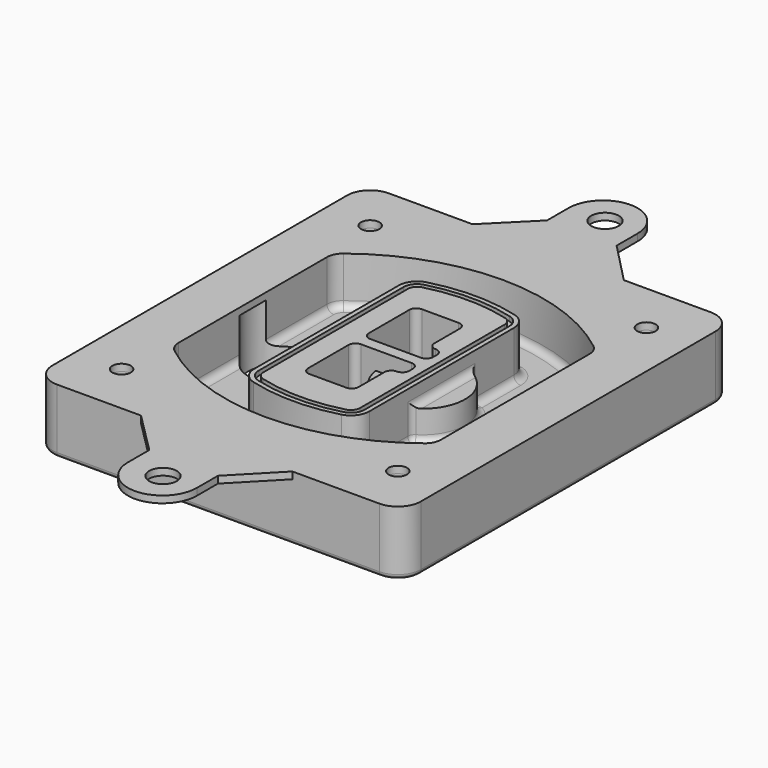
from build123d import *

# Parameters (mm, degrees)
F0_R      = 4
F1_DEPTH  = 25
F2_DEPTH  = 3
F3_DEPTH  = 18
F5_DEPTH  = 21
F6_DEPTH  = 2
F8_DEPTH  = 20
F9_DEPTH  = 16
F10_DEPTH = 25
F7_R      = 6
F7_R_2    = 4
F11_DEPTH = 6
F13_DEPTH = 9
F14_R     = 3
F15_R     = 2
F16_R     = 6
F16_R_2   = 4
F17_DEPTH = 3


with BuildPart() as f1:
    # F0 (on Top) → F1 (new body)
    with BuildSketch(Plane.XY):
        with BuildLine():
            ThreePointArc((-80, -80), (-77.0710678119, -87.0710678119), (-70, -90))
            Line((-70, -90), (70, -90))
            ThreePointArc((70, -90), (77.0710678119, -87.0710678119), (80, -80))
            Line((80, -80), (80, 80))
            ThreePointArc((80, 80), (77.0710678119, 87.0710678119), (70, 90))
            Line((70, 90), (-70, 90))
            ThreePointArc((-70, 90), (-77.0710678119, 87.0710678119), (-80, 80))
            Line((-80, 80), (-80, -80))
        make_face()
        with Locations((-60, -67.5)):
            Circle(F0_R, mode=Mode.SUBTRACT)
        with Locations((60, -67.5)):
            Circle(F0_R, mode=Mode.SUBTRACT)
        with Locations((-60, 67.5)):
            Circle(F0_R, mode=Mode.SUBTRACT)
        with BuildLine():
            ThreePointArc((-64, 40.2934422872), (-62.5820384798, 46.4328484224), (-58.6153846154, 51.3286200352))
            ThreePointArc((-58.6153846154, 51.3286200352), (0, 71.5), (58.6153846154, 51.3286200352))
            ThreePointArc((58.6153846154, 51.3286200352), (62.5820384798, 46.4328484224), (64, 40.2934422872))
            Line((64, 40.2934422872), (64, -40.2934422872))
            ThreePointArc((64, -40.2934422872), (62.5820384798, -46.4328484224), (58.6153846154, -51.3286200352))
            ThreePointArc((58.6153846154, -51.3286200352), (0, -71.5), (-58.6153846154, -51.3286200352))
            ThreePointArc((-58.6153846154, -51.3286200352), (-62.5820384798, -46.4328484224), (-64, -40.2934422872))
            Line((-64, -40.2934422872), (-64, 40.2934422872))
        make_face(mode=Mode.SUBTRACT)
        with Locations((60, 67.5)):
            Circle(F0_R, mode=Mode.SUBTRACT)
        with BuildLine():
            ThreePointArc((58.6153846154, 51.3286200352), (0, 71.5), (-58.6153846154, 51.3286200352))
            ThreePointArc((-58.6153846154, 51.3286200352), (-62.5820384798, 46.4328484224), (-64, 40.2934422872))
            Line((-64, 40.2934422872), (-64, -40.2934422872))
            ThreePointArc((-64, -40.2934422872), (-62.5820384798, -46.4328484224), (-58.6153846154, -51.3286200352))
            ThreePointArc((-58.6153846154, -51.3286200352), (0, -71.5), (58.6153846154, -51.3286200352))
            ThreePointArc((58.6153846154, -51.3286200352), (62.5820384798, -46.4328484224), (64, -40.2934422872))
            Line((64, -40.2934422872), (64, 40.2934422872))
            ThreePointArc((64, 40.2934422872), (62.5820384798, 46.4328484224), (58.6153846154, 51.3286200352))
        make_face()
        with BuildLine():
            Line((-60, -40.2934422872), (-60, 40.2934422872))
            ThreePointArc((-60, 40.2934422872), (-58.9871703427, 44.6787323838), (-56.1538461538, 48.1757121072))
            ThreePointArc((-56.1538461538, 48.1757121072), (0, 67.5), (56.1538461538, 48.1757121072))
            ThreePointArc((56.1538461538, 48.1757121072), (58.9871703427, 44.6787323838), (60, 40.2934422872))
            Line((60, 40.2934422872), (60, -40.2934422872))
            ThreePointArc((60, -40.2934422872), (58.9871703427, -44.6787323838), (56.1538461538, -48.1757121072))
            ThreePointArc((56.1538461538, -48.1757121072), (0, -67.5), (-56.1538461538, -48.1757121072))
            ThreePointArc((-56.1538461538, -48.1757121072), (-58.9871703427, -44.6787323838), (-60, -40.2934422872))
        make_face(mode=Mode.SUBTRACT)
        with BuildLine():
            ThreePointArc((-56.1538461538, 48.1757121072), (-58.9871703427, 44.6787323838), (-60, 40.2934422872))
            Line((-60, 40.2934422872), (-60, -40.2934422872))
            ThreePointArc((-60, -40.2934422872), (-58.9871703427, -44.6787323838), (-56.1538461538, -48.1757121072))
            ThreePointArc((-56.1538461538, -48.1757121072), (0, -67.5), (56.1538461538, -48.1757121072))
            ThreePointArc((56.1538461538, -48.1757121072), (58.9871703427, -44.6787323838), (60, -40.2934422872))
            Line((60, -40.2934422872), (60, 40.2934422872))
            ThreePointArc((60, 40.2934422872), (58.9871703427, 44.6787323838), (56.1538461538, 48.1757121072))
            ThreePointArc((56.1538461538, 48.1757121072), (0, 67.5), (-56.1538461538, 48.1757121072))
        make_face()
        with BuildLine():
            ThreePointArc((54.3076923077, 45.8110311612), (56.2910192399, 43.3631453548), (57, 40.2934422872))
            Line((57, 40.2934422872), (57, -40.2934422872))
            ThreePointArc((57, -40.2934422872), (56.2910192399, -43.3631453548), (54.3076923077, -45.8110311612))
            ThreePointArc((54.3076923077, -45.8110311612), (0, -64.5), (-54.3076923077, -45.8110311612))
            ThreePointArc((-54.3076923077, -45.8110311612), (-56.2910192399, -43.3631453548), (-57, -40.2934422872))
            Line((-57, -40.2934422872), (-57, 40.2934422872))
            ThreePointArc((-57, 40.2934422872), (-56.2910192399, 43.3631453548), (-54.3076923077, 45.8110311612))
            ThreePointArc((-54.3076923077, 45.8110311612), (0, 64.5), (54.3076923077, 45.8110311612))
        make_face(mode=Mode.SUBTRACT)
        with BuildLine():
            Line((57, -40.2934422872), (57, 40.2934422872))
            ThreePointArc((57, 40.2934422872), (56.2910192399, 43.3631453548), (54.3076923077, 45.8110311612))
            ThreePointArc((54.3076923077, 45.8110311612), (0, 64.5), (-54.3076923077, 45.8110311612))
            ThreePointArc((-54.3076923077, 45.8110311612), (-56.2910192399, 43.3631453548), (-57, 40.2934422872))
            Line((-57, 40.2934422872), (-57, -40.2934422872))
            ThreePointArc((-57, -40.2934422872), (-56.2910192399, -43.3631453548), (-54.3076923077, -45.8110311612))
            ThreePointArc((-54.3076923077, -45.8110311612), (0, -64.5), (54.3076923077, -45.8110311612))
            ThreePointArc((54.3076923077, -45.8110311612), (56.2910192399, -43.3631453548), (57, -40.2934422872))
        make_face()
    extrude(amount=-F1_DEPTH)

    # F0 (on Top) → F2 (join)
    with BuildSketch(Plane.XY):
        with BuildLine():
            ThreePointArc((-56.1538461538, 48.1757121072), (-58.9871703427, 44.6787323838), (-60, 40.2934422872))
            Line((-60, 40.2934422872), (-60, -40.2934422872))
            ThreePointArc((-60, -40.2934422872), (-58.9871703427, -44.6787323838), (-56.1538461538, -48.1757121072))
            ThreePointArc((-56.1538461538, -48.1757121072), (0, -67.5), (56.1538461538, -48.1757121072))
            ThreePointArc((56.1538461538, -48.1757121072), (58.9871703427, -44.6787323838), (60, -40.2934422872))
            Line((60, -40.2934422872), (60, 40.2934422872))
            ThreePointArc((60, 40.2934422872), (58.9871703427, 44.6787323838), (56.1538461538, 48.1757121072))
            ThreePointArc((56.1538461538, 48.1757121072), (0, 67.5), (-56.1538461538, 48.1757121072))
        make_face()
        with BuildLine():
            ThreePointArc((54.3076923077, 45.8110311612), (56.2910192399, 43.3631453548), (57, 40.2934422872))
            Line((57, 40.2934422872), (57, -40.2934422872))
            ThreePointArc((57, -40.2934422872), (56.2910192399, -43.3631453548), (54.3076923077, -45.8110311612))
            ThreePointArc((54.3076923077, -45.8110311612), (0, -64.5), (-54.3076923077, -45.8110311612))
            ThreePointArc((-54.3076923077, -45.8110311612), (-56.2910192399, -43.3631453548), (-57, -40.2934422872))
            Line((-57, -40.2934422872), (-57, 40.2934422872))
            ThreePointArc((-57, 40.2934422872), (-56.2910192399, 43.3631453548), (-54.3076923077, 45.8110311612))
            ThreePointArc((-54.3076923077, 45.8110311612), (0, 64.5), (54.3076923077, 45.8110311612))
        make_face(mode=Mode.SUBTRACT)
    extrude(amount=F2_DEPTH)

    # F0 (on Top) → F3 (cut)
    with BuildSketch(Plane.XY):
        with BuildLine():
            Line((57, -40.2934422872), (57, 40.2934422872))
            ThreePointArc((57, 40.2934422872), (56.2910192399, 43.3631453548), (54.3076923077, 45.8110311612))
            ThreePointArc((54.3076923077, 45.8110311612), (0, 64.5), (-54.3076923077, 45.8110311612))
            ThreePointArc((-54.3076923077, 45.8110311612), (-56.2910192399, 43.3631453548), (-57, 40.2934422872))
            Line((-57, 40.2934422872), (-57, -40.2934422872))
            ThreePointArc((-57, -40.2934422872), (-56.2910192399, -43.3631453548), (-54.3076923077, -45.8110311612))
            ThreePointArc((-54.3076923077, -45.8110311612), (0, -64.5), (54.3076923077, -45.8110311612))
            ThreePointArc((54.3076923077, -45.8110311612), (56.2910192399, -43.3631453548), (57, -40.2934422872))
        make_face()
    extrude(amount=-F3_DEPTH, mode=Mode.SUBTRACT)

    # F4 (on face) → F5 (join, through all)
    with BuildSketch(Plane.XY.offset(3)):
        with BuildLine():
            ThreePointArc((-25, -39.2465276821), (-23.3511545998, -44.1109737193), (-19.0842911877, -46.9702398883))
            ThreePointArc((-19.0842911877, -46.9702398883), (0, -49.5), (19.0842911877, -46.9702398883))
            ThreePointArc((19.0842911877, -46.9702398883), (23.3511545998, -44.1109737193), (25, -39.2465276821))
            Line((25, -39.2465276821), (25, 39.2465276821))
            ThreePointArc((25, 39.2465276821), (23.3511545998, 44.1109737193), (19.0842911877, 46.9702398883))
            ThreePointArc((19.0842911877, 46.9702398883), (0, 49.5), (-19.0842911877, 46.9702398883))
            ThreePointArc((-19.0842911877, 46.9702398883), (-23.3511545998, 44.1109737193), (-25, 39.2465276821))
            Line((-25, 39.2465276821), (-25, -39.2465276821))
        make_face()
        with BuildLine():
            ThreePointArc((18.5632183908, 45.0393118368), (21.7633659499, 42.89486221), (23, 39.2465276821))
            Line((23, 39.2465276821), (23, -39.2465276821))
            ThreePointArc((23, -39.2465276821), (21.7633659499, -42.89486221), (18.5632183908, -45.0393118368))
            ThreePointArc((18.5632183908, -45.0393118368), (0, -47.5), (-18.5632183908, -45.0393118368))
            ThreePointArc((-18.5632183908, -45.0393118368), (-21.7633659499, -42.89486221), (-23, -39.2465276821))
            Line((-23, -39.2465276821), (-23, 39.2465276821))
            ThreePointArc((-23, 39.2465276821), (-21.7633659499, 42.89486221), (-18.5632183908, 45.0393118368))
            ThreePointArc((-18.5632183908, 45.0393118368), (0, 47.5), (18.5632183908, 45.0393118368))
        make_face(mode=Mode.SUBTRACT)
        with BuildLine():
            Line((23, -39.2465276821), (23, 39.2465276821))
            ThreePointArc((23, 39.2465276821), (21.7633659499, 42.89486221), (18.5632183908, 45.0393118368))
            ThreePointArc((18.5632183908, 45.0393118368), (0, 47.5), (-18.5632183908, 45.0393118368))
            ThreePointArc((-18.5632183908, 45.0393118368), (-21.7633659499, 42.89486221), (-23, 39.2465276821))
            Line((-23, 39.2465276821), (-23, -39.2465276821))
            ThreePointArc((-23, -39.2465276821), (-21.7633659499, -42.89486221), (-18.5632183908, -45.0393118368))
            ThreePointArc((-18.5632183908, -45.0393118368), (0, -47.5), (18.5632183908, -45.0393118368))
            ThreePointArc((18.5632183908, -45.0393118368), (21.7633659499, -42.89486221), (23, -39.2465276821))
        make_face()
        with BuildLine():
            ThreePointArc((18.0421455939, 43.1083837852), (20.1755772999, 41.6787507007), (21, 39.2465276821))
            Line((21, 39.2465276821), (21, -39.2465276821))
            ThreePointArc((21, -39.2465276821), (20.1755772999, -41.6787507007), (18.0421455939, -43.1083837852))
            ThreePointArc((18.0421455939, -43.1083837852), (0, -45.5), (-18.0421455939, -43.1083837852))
            ThreePointArc((-18.0421455939, -43.1083837852), (-20.1755772999, -41.6787507007), (-21, -39.2465276821))
            Line((-21, -39.2465276821), (-21, 39.2465276821))
            ThreePointArc((-21, 39.2465276821), (-20.1755772999, 41.6787507007), (-18.0421455939, 43.1083837852))
            ThreePointArc((-18.0421455939, 43.1083837852), (0, 45.5), (18.0421455939, 43.1083837852))
        make_face(mode=Mode.SUBTRACT)
        with BuildLine():
            Line((21, -39.2465276821), (21, 39.2465276821))
            ThreePointArc((21, 39.2465276821), (20.1755772999, 41.6787507007), (18.0421455939, 43.1083837852))
            ThreePointArc((18.0421455939, 43.1083837852), (0, 45.5), (-18.0421455939, 43.1083837852))
            ThreePointArc((-18.0421455939, 43.1083837852), (-20.1755772999, 41.6787507007), (-21, 39.2465276821))
            Line((-21, 39.2465276821), (-21, -39.2465276821))
            ThreePointArc((-21, -39.2465276821), (-20.1755772999, -41.6787507007), (-18.0421455939, -43.1083837852))
            ThreePointArc((-18.0421455939, -43.1083837852), (0, -45.5), (18.0421455939, -43.1083837852))
            ThreePointArc((18.0421455939, -43.1083837852), (20.1755772999, -41.6787507007), (21, -39.2465276821))
        make_face()
        with BuildLine():
            Line((-8, -2.5), (14, -2.5))
            ThreePointArc((14, -2.5), (16.1213203436, -3.3786796564), (17, -5.5))
            Line((17, -5.5), (17, -7.5))
            ThreePointArc((17, -7.5), (16.1213203436, -9.6213203436), (14, -10.5))
            ThreePointArc((14, -10.5), (11.8786796564, -11.3786796564), (11, -13.5))
            Line((11, -13.5), (11, -27.5))
            ThreePointArc((11, -27.5), (10.1213203436, -29.6213203436), (8, -30.5))
            Line((8, -30.5), (-8, -30.5))
            ThreePointArc((-8, -30.5), (-10.1213203436, -29.6213203436), (-11, -27.5))
            Line((-11, -27.5), (-11, -5.5))
            ThreePointArc((-11, -5.5), (-10.1213203436, -3.3786796564), (-8, -2.5))
        make_face(mode=Mode.SUBTRACT)
        with BuildLine():
            ThreePointArc((-8, 2.5), (-10.1213203436, 3.3786796564), (-11, 5.5))
            Line((-11, 5.5), (-11, 27.5))
            ThreePointArc((-11, 27.5), (-10.1213203436, 29.6213203436), (-8, 30.5))
            Line((-8, 30.5), (8, 30.5))
            ThreePointArc((8, 30.5), (10.1213203436, 29.6213203436), (11, 27.5))
            Line((11, 27.5), (11, 13.5))
            ThreePointArc((11, 13.5), (11.8786796564, 11.3786796564), (14, 10.5))
            ThreePointArc((14, 10.5), (16.1213203436, 9.6213203436), (17, 7.5))
            Line((17, 7.5), (17, 5.5))
            ThreePointArc((17, 5.5), (16.1213203436, 3.3786796564), (14, 2.5))
            Line((14, 2.5), (-8, 2.5))
        make_face(mode=Mode.SUBTRACT)
    extrude(amount=-F5_DEPTH)

    # F4 (on face) → F6 (cut)
    with BuildSketch(Plane.XY.offset(3)):
        with BuildLine():
            Line((23, -39.2465276821), (23, 39.2465276821))
            ThreePointArc((23, 39.2465276821), (21.7633659499, 42.89486221), (18.5632183908, 45.0393118368))
            ThreePointArc((18.5632183908, 45.0393118368), (0, 47.5), (-18.5632183908, 45.0393118368))
            ThreePointArc((-18.5632183908, 45.0393118368), (-21.7633659499, 42.89486221), (-23, 39.2465276821))
            Line((-23, 39.2465276821), (-23, -39.2465276821))
            ThreePointArc((-23, -39.2465276821), (-21.7633659499, -42.89486221), (-18.5632183908, -45.0393118368))
            ThreePointArc((-18.5632183908, -45.0393118368), (0, -47.5), (18.5632183908, -45.0393118368))
            ThreePointArc((18.5632183908, -45.0393118368), (21.7633659499, -42.89486221), (23, -39.2465276821))
        make_face()
        with BuildLine():
            ThreePointArc((18.0421455939, 43.1083837852), (20.1755772999, 41.6787507007), (21, 39.2465276821))
            Line((21, 39.2465276821), (21, -39.2465276821))
            ThreePointArc((21, -39.2465276821), (20.1755772999, -41.6787507007), (18.0421455939, -43.1083837852))
            ThreePointArc((18.0421455939, -43.1083837852), (0, -45.5), (-18.0421455939, -43.1083837852))
            ThreePointArc((-18.0421455939, -43.1083837852), (-20.1755772999, -41.6787507007), (-21, -39.2465276821))
            Line((-21, -39.2465276821), (-21, 39.2465276821))
            ThreePointArc((-21, 39.2465276821), (-20.1755772999, 41.6787507007), (-18.0421455939, 43.1083837852))
            ThreePointArc((-18.0421455939, 43.1083837852), (0, 45.5), (18.0421455939, 43.1083837852))
        make_face(mode=Mode.SUBTRACT)
    extrude(amount=-F6_DEPTH, mode=Mode.SUBTRACT)

    # F7 (on face) → F8 (join)
    with BuildSketch(Plane(origin=(0, 0, -25), x_dir=(1, 0, 0), z_dir=(0, 0, -1))):
        with BuildLine():
            ThreePointArc((3.28842436, 0), (16.7567035675, 13.4682792075), (30.224982775, 0))
            Line((30.224982775, 0), (35.224982775, 0))
            ThreePointArc((35.224982775, 0), (16.7567035675, 18.4682792075), (-1.71157564, 0))
            Line((-1.71157564, 0), (3.28842436, 0))
        make_face()
        with BuildLine():
            Line((3.28842436, 0), (30.224982775, 0))
            ThreePointArc((30.224982775, 0), (16.7567035675, 13.4682792075), (3.28842436, 0))
        make_face()
        with BuildLine():
            ThreePointArc((3.28842436, 0), (16.7567035675, -13.4682792075), (30.224982775, 0))
            Line((30.224982775, 0), (3.28842436, 0))
        make_face()
        with BuildLine():
            Line((35.224982775, 0), (30.224982775, 0))
            ThreePointArc((30.224982775, 0), (16.7567035675, -13.4682792075), (3.28842436, 0))
            Line((3.28842436, 0), (-1.71157564, 0))
            ThreePointArc((-1.71157564, 0), (16.7567035675, -18.4682792075), (35.224982775, 0))
        make_face()
    extrude(amount=-F8_DEPTH)

    # F7 (on face) → F9 (cut)
    with BuildSketch(Plane(origin=(0, 0, -25), x_dir=(1, 0, 0), z_dir=(0, 0, -1))):
        with BuildLine():
            Line((3.28842436, 0), (30.224982775, 0))
            ThreePointArc((30.224982775, 0), (16.7567035675, 13.4682792075), (3.28842436, 0))
        make_face()
        with BuildLine():
            ThreePointArc((3.28842436, 0), (16.7567035675, -13.4682792075), (30.224982775, 0))
            Line((30.224982775, 0), (3.28842436, 0))
        make_face()
    extrude(amount=-F9_DEPTH, mode=Mode.SUBTRACT)

    # F7 (on face) → F10 (cut)
    with BuildSketch(Plane(origin=(0, 0, -25), x_dir=(1, 0, 0), z_dir=(0, 0, -1))):
        with BuildLine():
            Line((-59.0318229325, 0), (-32.0952645175, 0))
            ThreePointArc((-32.0952645175, 0), (-45.563543725, 13.4682792075), (-59.0318229325, 0))
        make_face()
        with BuildLine():
            ThreePointArc((-59.0318229325, 0), (-45.563543725, -13.4682792075), (-32.0952645175, 0))
            Line((-32.0952645175, 0), (-59.0318229325, 0))
        make_face()
    extrude(amount=-F10_DEPTH, mode=Mode.SUBTRACT)

    # F7 (on face) → F11 (cut)
    with BuildSketch(Plane(origin=(0, 0, -25), x_dir=(1, 0, 0), z_dir=(0, 0, -1))):
        with Locations((60, -67.5)):
            Circle(F7_R)
        with Locations((60, -67.5)):
            Circle(F7_R_2, mode=Mode.SUBTRACT)
        with Locations((60, -67.5)):
            Circle(F7_R)
        with Locations((60, -67.5)):
            Circle(F7_R_2, mode=Mode.SUBTRACT)
        with Locations((-60, -67.5)):
            Circle(F7_R)
        with Locations((-60, -67.5)):
            Circle(F7_R_2, mode=Mode.SUBTRACT)
        with Locations((-60, -67.5)):
            Circle(F7_R)
        with Locations((-60, -67.5)):
            Circle(F7_R_2, mode=Mode.SUBTRACT)
        with Locations((-60, 67.5)):
            Circle(F7_R)
        with Locations((-60, 67.5)):
            Circle(F7_R_2, mode=Mode.SUBTRACT)
        with Locations((-60, 67.5)):
            Circle(F7_R)
        with Locations((-60, 67.5)):
            Circle(F7_R_2, mode=Mode.SUBTRACT)
        with Locations((60, 67.5)):
            Circle(F7_R)
        with Locations((60, 67.5)):
            Circle(F7_R_2, mode=Mode.SUBTRACT)
        with Locations((60, 67.5)):
            Circle(F7_R)
        with Locations((60, 67.5)):
            Circle(F7_R_2, mode=Mode.SUBTRACT)
    extrude(amount=-F11_DEPTH, mode=Mode.SUBTRACT)

    # F12 (on face) → F13 (cut, through all)
    with BuildSketch(Plane(origin=(0, 0, -9), x_dir=(1, 0, 0), z_dir=(0, 0, -1))):
        with BuildLine():
            Line((11, 13.5), (11, 17.5481537753))
            ThreePointArc((11, 17.5481537753), (2.5696536419, 11.8239143813), (-1.5415842455, 2.5))
            Line((-1.5415842455, 2.5), (3.5224848595, 2.5))
            ThreePointArc((3.5224848595, 2.5), (6.1857188154, 8.3455872281), (11.2536447004, 12.2927168648))
            ThreePointArc((11.2536447004, 12.2927168648), (11.0640958889, 12.8831798879), (11, 13.5))
        make_face()
        with BuildLine():
            ThreePointArc((11.2536447004, -12.2927168648), (6.1857188154, -8.3455872281), (3.5224848595, -2.5))
            Line((3.5224848595, -2.5), (-1.5415842455, -2.5))
            ThreePointArc((-1.5415842455, -2.5), (2.5696536419, -11.8239143813), (11, -17.5481537753))
            Line((11, -17.5481537753), (11, -13.5))
            ThreePointArc((11, -13.5), (11.0640958889, -12.8831798879), (11.2536447004, -12.2927168648))
        make_face()
        with BuildLine():
            ThreePointArc((11.2536447004, 12.2927168648), (6.1857188154, 8.3455872281), (3.5224848595, 2.5))
            Line((3.5224848595, 2.5), (14, 2.5))
            ThreePointArc((14, 2.5), (16.1213203436, 3.3786796564), (17, 5.5))
            Line((17, 5.5), (17, 7.5))
            ThreePointArc((17, 7.5), (16.1213203436, 9.6213203436), (14, 10.5))
            ThreePointArc((14, 10.5), (12.3601599782, 10.9878446101), (11.2536447004, 12.2927168648))
        make_face()
        with BuildLine():
            Line((14, -2.5), (3.5224848595, -2.5))
            ThreePointArc((3.5224848595, -2.5), (6.1857188154, -8.3455872281), (11.2536447004, -12.2927168648))
            ThreePointArc((11.2536447004, -12.2927168648), (12.3601599782, -10.9878446101), (14, -10.5))
            ThreePointArc((14, -10.5), (16.1213203436, -9.6213203436), (17, -7.5))
            Line((17, -7.5), (17, -5.5))
            ThreePointArc((17, -5.5), (16.1213203436, -3.3786796564), (14, -2.5))
        make_face()
    extrude(amount=F13_DEPTH, mode=Mode.SUBTRACT)

    # F14
    f14_edges = [f1.edges().sort_by_distance(p)[0] for p in [
        (-57, -23.703476, -18),
        (-57, 23.703476, -18),
        (25, 0, -5),
        (25, 16.526506, -11.5),
        (25, -16.526506, -11.5),
        (25, -27.886517, -18),
        (35.224983, 0, -18),
    ]]
    fillet(f14_edges, radius=F14_R)

    # F15
    f15_edges = [f1.edges().sort_by_distance(p)[0] for p in [
        (0, -90, -25),
    ]]
    fillet(f15_edges, radius=F15_R)

    # F16 (on face) → F17 (join, through all)
    with BuildSketch(Plane.XY):
        with BuildLine():
            Line((-15.5541069508, 108), (-33.5541069508, 90))
            Line((-33.5541069508, 90), (32.1825575083, 90))
            Line((32.1825575083, 90), (14.4408147306, 108.2546038908))
            Line((14.4408147306, 108.2546038908), (14.4408147306, 119.6097132213))
            ThreePointArc((14.4408147306, 119.6097132213), (-0.3640253612, 134.6084435879), (-15.5541069508, 120))
            Line((-15.5541069508, 120), (-15.5541069508, 108))
        make_face()
        with Locations((0, 120)):
            Circle(F16_R, mode=Mode.SUBTRACT)
        with BuildLine():
            Line((32.1825575083, 90), (-33.5541069508, 90))
            Line((-33.5541069508, 90), (-70, 90))
            ThreePointArc((-70, 90), (-77.0710678119, 87.0710678119), (-80, 80))
            Line((-80, 80), (-80, -80))
            ThreePointArc((-80, -80), (-77.0710678119, -87.0710678119), (-70, -90))
            Line((-70, -90), (-33.5541069508, -90))
            Line((-33.5541069508, -90), (32.1825575083, -90))
            Line((32.1825575083, -90), (70, -90))
            ThreePointArc((70, -90), (77.0710678119, -87.0710678119), (80, -80))
            Line((80, -80), (80, 80))
            ThreePointArc((80, 80), (77.0710678119, 87.0710678119), (70, 90))
            Line((70, 90), (32.1825575083, 90))
        make_face()
        with Locations((-60, -67.5)):
            Circle(F16_R_2, mode=Mode.SUBTRACT)
        with Locations((60, -67.5)):
            Circle(F16_R_2, mode=Mode.SUBTRACT)
        with BuildLine():
            ThreePointArc((-60, 40.2934422872), (-58.9871703427, 44.6787323838), (-56.1538461538, 48.1757121072))
            ThreePointArc((-56.1538461538, 48.1757121072), (0, 67.5), (56.1538461538, 48.1757121072))
            ThreePointArc((56.1538461538, 48.1757121072), (58.9871703427, 44.6787323838), (60, 40.2934422872))
            Line((60, 40.2934422872), (60, -40.2934422872))
            ThreePointArc((60, -40.2934422872), (58.9871703427, -44.6787323838), (56.1538461538, -48.1757121072))
            ThreePointArc((56.1538461538, -48.1757121072), (0, -67.5), (-56.1538461538, -48.1757121072))
            ThreePointArc((-56.1538461538, -48.1757121072), (-58.9871703427, -44.6787323838), (-60, -40.2934422872))
            Line((-60, -40.2934422872), (-60, 40.2934422872))
        make_face(mode=Mode.SUBTRACT)
        with Locations((-60, 67.5)):
            Circle(F16_R_2, mode=Mode.SUBTRACT)
        with Locations((60, 67.5)):
            Circle(F16_R_2, mode=Mode.SUBTRACT)
        with BuildLine():
            Line((32.1825575083, -90), (-33.5541069508, -90))
            Line((-33.5541069508, -90), (-15.5541069508, -108))
            Line((-15.5541069508, -108), (-15.5541069508, -120))
            ThreePointArc((-15.5541069508, -120), (-0.3640253612, -134.6084435879), (14.4408147306, -119.6097132213))
            Line((14.4408147306, -119.6097132213), (14.4408147306, -108.2546038908))
            Line((14.4408147306, -108.2546038908), (32.1825575083, -90))
        make_face()
        with Locations((0, -120)):
            Circle(F16_R, mode=Mode.SUBTRACT)
    extrude(amount=F17_DEPTH)


solid = f1.part
